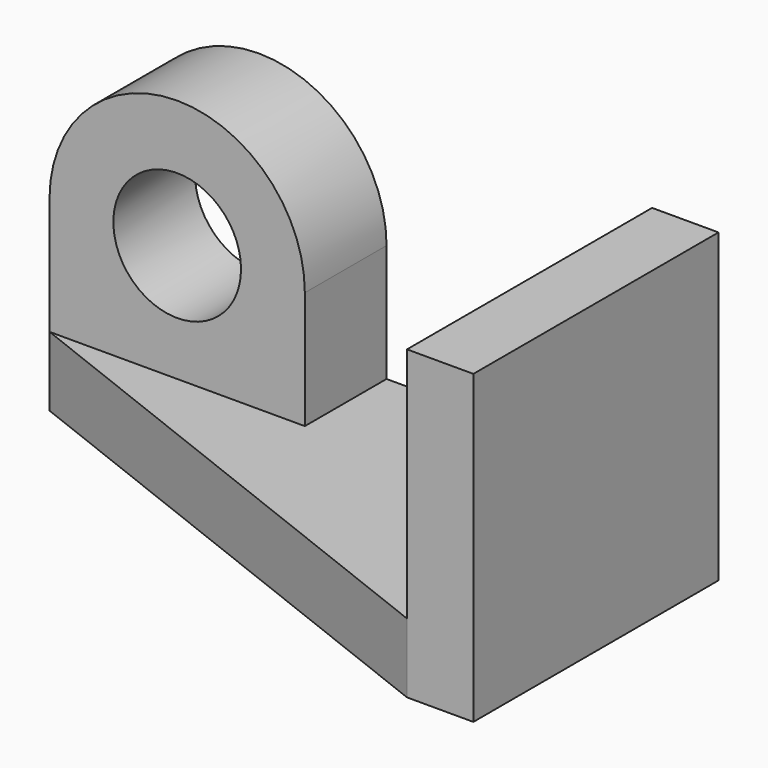
from build123d import *

# Parameters (mm, degrees)
F0_W      = 1524
F0_H      = 1524
F1_DEPTH  = 25.4
F2_DEPTH  = 304.8
F3_W      = 1524
F3_H      = 345.2605605125
F4_DEPTH  = 2921
F5_W      = 1270
F5_H      = 508
F6_DEPTH  = 584.2
F8_DEPTH  = 508
F9_R      = 317.5
F10_DEPTH = 5212.08
F12_DEPTH = 508


with BuildPart() as f1:
    # F0 (on Right) → F1 (new body)
    with BuildSketch(Plane.YZ):
        with Locations((-762, 762)):
            Rectangle(F0_W, F0_H)
    extrude(amount=F1_DEPTH)

    # F2 (add): a face of the model
    f2_faces = [f1.faces().sort_by_distance(p)[0] for p in [
        (25.4, -762, 762),
    ]]
    extrude(f2_faces, amount=F2_DEPTH)

    # F3 (on face) → F4 (join)
    with BuildSketch(Plane.YZ.offset(330.2)):
        with Locations((-762, 172.6302802563)):
            Rectangle(F3_W, F3_H)
    extrude(amount=-F4_DEPTH)

    # F5 (on face) → F6 (join)
    with BuildSketch(Plane.XY.offset(345.2605605125)):
        with Locations((-1955.8, -254)):
            Rectangle(F5_W, F5_H)
    extrude(amount=F6_DEPTH)

    # F7 (on face) → F8 (join)
    with BuildSketch(Plane.XZ.offset(508)):
        with BuildLine():
            Line((-2590.8, 929.4605605125), (-1320.8, 929.4605605125))
            ThreePointArc((-1320.8, 929.4605605125), (-1955.8, 1564.4605605125), (-2590.8, 929.4605605125))
        make_face()
    extrude(amount=-F8_DEPTH)

    # F9 (on face) → F10 (cut)
    with BuildSketch(Plane.XZ.offset(508)):
        with Locations((-1955.8, 929.4605605125)):
            Circle(F9_R)
    extrude(amount=-F10_DEPTH, mode=Mode.SUBTRACT)

    # F11 (on face) → F12 (cut)
    with BuildSketch(Plane.XY.offset(345.2605605125)):
        Polygon((0, -1524), (-2590.8, -508), (-2590.8, -1524), align=None)
    extrude(amount=-F12_DEPTH, mode=Mode.SUBTRACT)


solid = f1.part
